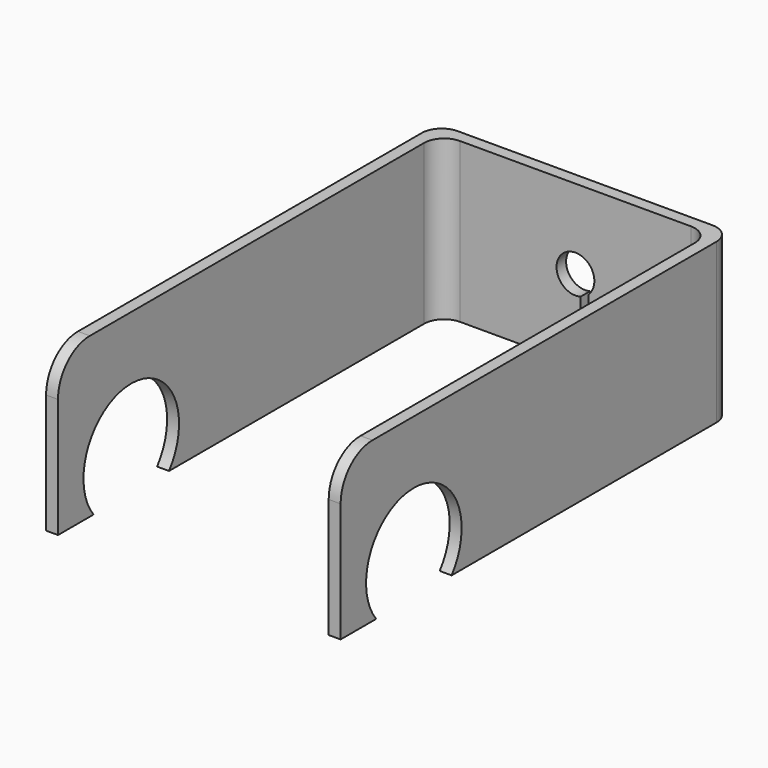
from build123d import *

# Parameters (mm, degrees)
PAD_DEPTH       = 40
SKETCH001_R     = 15
POCKET_DEPTH    = 74.001
FILLET_R        = 5
FILLET001_R     = 10
POCKET001_DEPTH = 5


with BuildPart() as part:
    # Sketch → Pad (new body)
    with BuildSketch(Plane.XY):
        Polygon((0, 0), (0, 123), (74, 123), (74, 0), (71, 0), (71, 120), (3, 120), (3, 0), align=None)
    extrude(amount=PAD_DEPTH)

    # Sketch001 → Pocket (cut, through all)
    with BuildSketch(Plane(origin=(0, 0, 0), x_dir=(0, -1, 0), z_dir=(-1, 0, 0))):
        with Locations((-23, 9.182545)):
            Circle(SKETCH001_R)
    extrude(amount=-POCKET_DEPTH, mode=Mode.SUBTRACT)

    # Fillet
    fillet_edges = [part.edges().sort_by_distance(p)[0] for p in [
        (0, 123, 20),
        (74, 123, 20),
        (71, 120, 20),
        (3, 120, 20),
    ]]
    fillet(fillet_edges, radius=FILLET_R)

    # Fillet001
    fillet001_edges = [part.edges().sort_by_distance(p)[0] for p in [
        (72.5, 0, 40),
        (1.5, 0, 40),
    ]]
    fillet(fillet001_edges, radius=FILLET001_R)

    # Sketch002 → Pocket001 (cut)
    with BuildSketch(Plane(origin=(0, 123, 0), x_dir=(-1, 0, 0), z_dir=(0, 1, 0))):
        with BuildLine():
            ThreePointArc((-38.291944, 15.429072), (-34.637435, 24.120775), (-40.291944, 16.575733))
            Line((-40.291944, 16.575733), (-40.291944, 0))
            Line((-40.291944, 0), (-38.291944, 0))
            Line((-38.291944, 0), (-38.291944, 15.429072))
        make_face()
    extrude(amount=-POCKET001_DEPTH, mode=Mode.SUBTRACT)


solid = part.part
